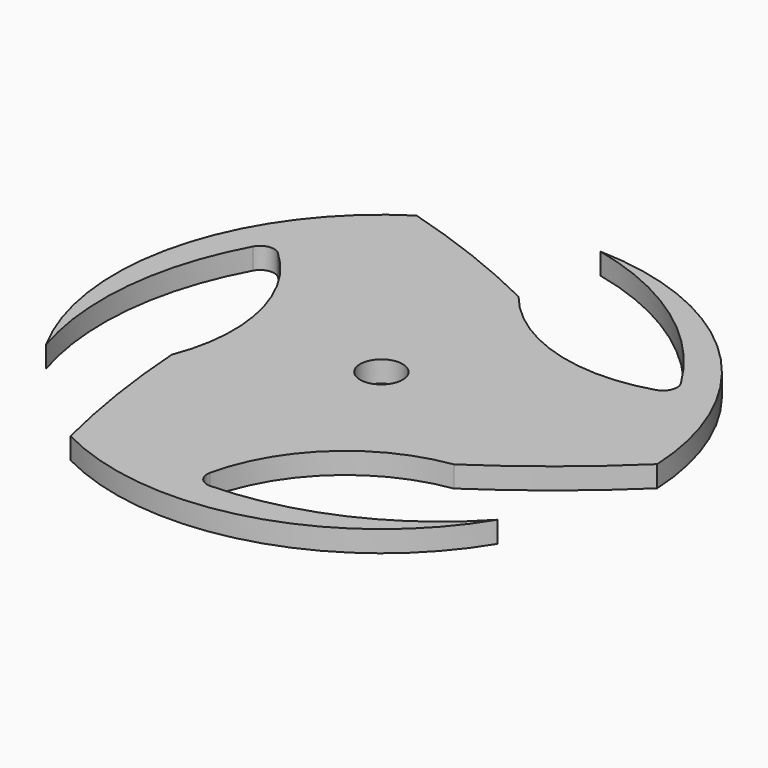
from build123d import *

# Parameters (mm, degrees)
F0_R     = 3
F1_DEPTH = 3
F2_R     = 2
F3_R     = 2


with BuildPart() as f1:
    # F0 (on Top) → F1 (new body)
    with BuildSketch(Plane.XY):
        with BuildLine():
            ThreePointArc((57.514202, 25.269969), (66.546327, 31.896246), (74.956996, 39.295399))
            ThreePointArc((74.956996, 39.295399), (63.695653, 64.333519), (38.3939, 74.989344))
            ThreePointArc((38.3939, 74.989344), (54.563179, 67.459498), (66.146021, 53.895503))
            ThreePointArc((66.146021, 53.895503), (50.919706, 52.664645), (38.084417, 60.947823))
            ThreePointArc((38.084417, 60.947823), (27.82983, 65.456734), (17.216641, 69.041011))
            ThreePointArc((17.216641, 69.041011), (1.163664, 46.769342), (4.586325, 19.529468))
            ThreePointArc((4.586325, 19.529468), (3.022724, 37.297398), (8.978067, 54.11043))
            ThreePointArc((8.978067, 54.11043), (17.657179, 41.539484), (16.901381, 26.282208))
            ThreePointArc((16.901381, 26.282208), (18.123843, 15.14702), (20.326363, 4.163591))
            ThreePointArc((20.326363, 4.163591), (47.640683, 1.397139), (69.519775, 17.981188))
            ThreePointArc((69.519775, 17.981188), (54.914097, 7.743104), (37.375912, 4.494066))
            ThreePointArc((37.375912, 4.494066), (43.923115, 18.295871), (57.514202, 25.269969))
        make_face()
        with Locations((37.5, 37.5)):
            Circle(F0_R, mode=Mode.SUBTRACT)
    extrude(amount=F1_DEPTH)

    # F2
    f2_edges = [f1.edges().sort_by_distance(p)[0] for p in [
        (37.375912, 4.494066, 1.5),
    ]]
    fillet(f2_edges, radius=F2_R)

    # F3
    f3_edges = [f1.edges().sort_by_distance(p)[0] for p in [
        (66.146021, 53.895503, 1.5),
        (8.978067, 54.11043, 1.5),
    ]]
    fillet(f3_edges, radius=F3_R)


solid = f1.part
